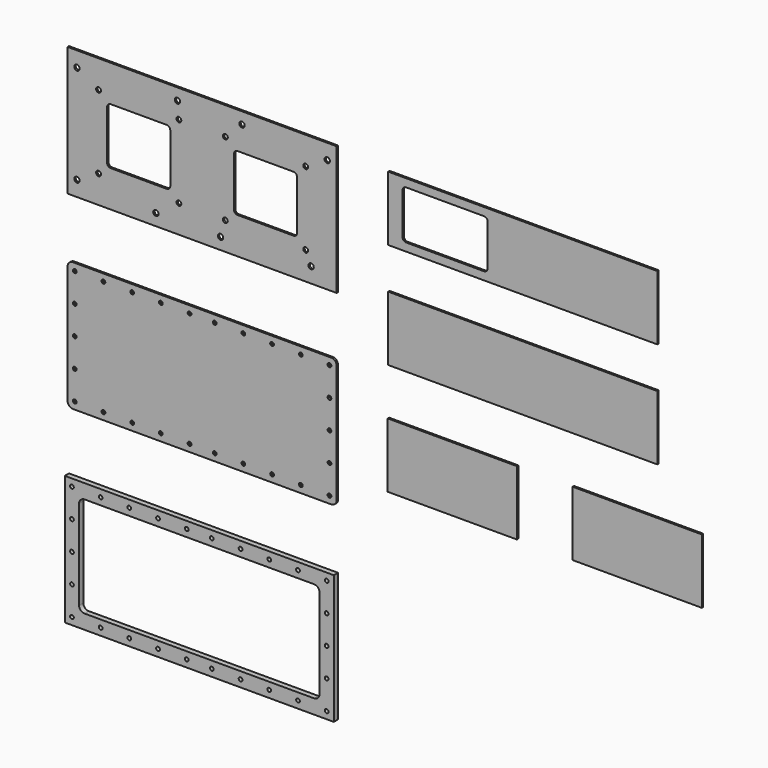
from build123d import *

# Parameters (mm, degrees)
F0_W     = 486.08569
F0_H     = 233.321132
F0_R     = 4.860857
F0_R_2   = 4.407177
F0_H_2   = 116.660566
F0_H_3   = 116.660565
F0_W_2   = 233.321131
F0_R_3   = 3.370194
F1_DEPTH = 3.175
F0_H_4   = 233.321131
F2_DEPTH = 9.525


with BuildPart() as f1:
    # F0 (on Front) → F1 (new body)
    with BuildSketch(Plane.XZ):
        with Locations((-327.868002, 334.885789)):
            Rectangle(F0_W, F0_H)
        with Locations((-553.897848, 245.770079)):
            Circle(F0_R, mode=Mode.SUBTRACT)
        with Locations((-515.010993, 268.454078)):
            Circle(F0_R_2, mode=Mode.SUBTRACT)
        with BuildLine():
            ThreePointArc((-499.456251, 379.281615), (-497.557968, 383.864475), (-492.975108, 385.762758))
            Line((-492.975108, 385.762758), (-391.869285, 385.762758))
            ThreePointArc((-391.869285, 385.762758), (-387.286425, 383.864475), (-385.388142, 379.281615))
            Line((-385.388142, 379.281615), (-385.388142, 290.489963))
            ThreePointArc((-385.388142, 290.489963), (-387.286425, 285.907103), (-391.869285, 284.00882))
            Line((-391.869285, 284.00882), (-492.975108, 284.00882))
            ThreePointArc((-492.975108, 284.00882), (-497.557968, 285.907103), (-499.456251, 290.489963))
            Line((-499.456251, 290.489963), (-499.456251, 379.281615))
        make_face(mode=Mode.SUBTRACT)
        with Locations((-411.312712, 239.288936)):
            Circle(F0_R, mode=Mode.SUBTRACT)
        with Locations((-369.8334, 268.454078)):
            Circle(F0_R_2, mode=Mode.SUBTRACT)
        with Locations((-294.652147, 239.288936)):
            Circle(F0_R, mode=Mode.SUBTRACT)
        with Locations((-285.902604, 268.454078)):
            Circle(F0_R_2, mode=Mode.SUBTRACT)
        with Locations((-515.010993, 401.3175)):
            Circle(F0_R_2, mode=Mode.SUBTRACT)
        with Locations((-553.897848, 424.001499)):
            Circle(F0_R, mode=Mode.SUBTRACT)
        with Locations((-369.8334, 401.3175)):
            Circle(F0_R_2, mode=Mode.SUBTRACT)
        with Locations((-372.425857, 430.482641)):
            Circle(F0_R, mode=Mode.SUBTRACT)
        with Locations((-285.902604, 401.3175)):
            Circle(F0_R_2, mode=Mode.SUBTRACT)
        with BuildLine():
            Line((-270.347862, 290.489963), (-270.347862, 379.281615))
            ThreePointArc((-270.347862, 379.281615), (-268.44958, 383.864475), (-263.86672, 385.762758))
            Line((-263.86672, 385.762758), (-162.760896, 385.762758))
            ThreePointArc((-162.760896, 385.762758), (-158.178036, 383.864475), (-156.279754, 379.281615))
            Line((-156.279754, 379.281615), (-156.279754, 290.489963))
            ThreePointArc((-156.279754, 290.489963), (-158.178036, 285.907103), (-162.760896, 284.00882))
            Line((-162.760896, 284.00882), (-263.86672, 284.00882))
            ThreePointArc((-263.86672, 284.00882), (-268.44958, 285.907103), (-270.347862, 290.489963))
        make_face(mode=Mode.SUBTRACT)
        with Locations((-131.003298, 245.770079)):
            Circle(F0_R, mode=Mode.SUBTRACT)
        with Locations((-140.725011, 268.454078)):
            Circle(F0_R_2, mode=Mode.SUBTRACT)
        with Locations((-255.765292, 430.482641)):
            Circle(F0_R, mode=Mode.SUBTRACT)
        with Locations((-140.725011, 401.3175)):
            Circle(F0_R_2, mode=Mode.SUBTRACT)
        with Locations((-101.838156, 424.001499)):
            Circle(F0_R, mode=Mode.SUBTRACT)
        with Locations((251.317019, 383.162653)):
            Rectangle(F0_W, F0_H_2)
        with BuildLine():
            Line((34.198744, 345.831272), (34.198744, 420.494034))
            ThreePointArc((34.198744, 420.494034), (36.097027, 425.076894), (40.679887, 426.975177))
            Line((40.679887, 426.975177), (181.450303, 426.975177))
            ThreePointArc((181.450303, 426.975177), (186.033163, 425.076894), (187.931445, 420.494034))
            Line((187.931445, 420.494034), (187.931445, 345.831272))
            ThreePointArc((187.931445, 345.831272), (186.033163, 341.248412), (181.450303, 339.350129))
            Line((181.450303, 339.350129), (40.679887, 339.350129))
            ThreePointArc((40.679887, 339.350129), (36.097027, 341.248412), (34.198744, 345.831272))
        make_face(mode=Mode.SUBTRACT)
        with Locations((251.317019, 192.287484)):
            Rectangle(F0_W, F0_H_3)
        with Locations((458.220417, -9.596711)):
            Rectangle(F0_W_2, F0_H_3)
        with Locations((124.074873, -9.596711)):
            Rectangle(F0_W_2, F0_H_3)
        with BuildLine():
            ThreePointArc((-570.910847, -111.415304), (-568.063423, -118.289594), (-561.189134, -121.137018))
            Line((-561.189134, -121.137018), (-94.546871, -121.137018))
            ThreePointArc((-94.546871, -121.137018), (-87.672581, -118.289594), (-84.825157, -111.415304))
            Line((-84.825157, -111.415304), (-84.825157, 102.462399))
            ThreePointArc((-84.825157, 102.462399), (-87.672581, 109.336689), (-94.546871, 112.184113))
            Line((-94.546871, 112.184113), (-561.189134, 112.184113))
            ThreePointArc((-561.189134, 112.184113), (-568.063423, 109.336689), (-570.910847, 102.462399))
            Line((-570.910847, 102.462399), (-570.910847, -111.415304))
        make_face()
        with Locations((-557.948562, -108.174733)):
            Circle(F0_R_3, mode=Mode.SUBTRACT)
        with Locations((-506.099422, -108.174733)):
            Circle(F0_R_3, mode=Mode.SUBTRACT)
        with Locations((-454.250282, -108.174733)):
            Circle(F0_R_3, mode=Mode.SUBTRACT)
        with Locations((-557.948562, -56.325593)):
            Circle(F0_R_3, mode=Mode.SUBTRACT)
        with Locations((-402.401141, -108.174733)):
            Circle(F0_R_3, mode=Mode.SUBTRACT)
        with Locations((-350.552001, -108.174733)):
            Circle(F0_R_3, mode=Mode.SUBTRACT)
        with Locations((-305.184003, -108.174733)):
            Circle(F0_R_3, mode=Mode.SUBTRACT)
        with Locations((-253.334863, -108.174733)):
            Circle(F0_R_3, mode=Mode.SUBTRACT)
        with Locations((-201.485723, -108.174733)):
            Circle(F0_R_3, mode=Mode.SUBTRACT)
        with Locations((-149.636582, -108.174733)):
            Circle(F0_R_3, mode=Mode.SUBTRACT)
        with Locations((-97.787442, -108.174733)):
            Circle(F0_R_3, mode=Mode.SUBTRACT)
        with Locations((-97.787442, -56.325593)):
            Circle(F0_R_3, mode=Mode.SUBTRACT)
        with Locations((-557.948562, -4.476452)):
            Circle(F0_R_3, mode=Mode.SUBTRACT)
        with Locations((-557.948562, 47.372688)):
            Circle(F0_R_3, mode=Mode.SUBTRACT)
        with Locations((-557.948562, 99.221828)):
            Circle(F0_R_3, mode=Mode.SUBTRACT)
        with Locations((-506.099422, 99.221828)):
            Circle(F0_R_3, mode=Mode.SUBTRACT)
        with Locations((-454.250282, 99.221828)):
            Circle(F0_R_3, mode=Mode.SUBTRACT)
        with Locations((-402.401141, 99.221828)):
            Circle(F0_R_3, mode=Mode.SUBTRACT)
        with Locations((-350.552001, 99.221828)):
            Circle(F0_R_3, mode=Mode.SUBTRACT)
        with Locations((-305.184003, 99.221828)):
            Circle(F0_R_3, mode=Mode.SUBTRACT)
        with Locations((-253.334863, 99.221828)):
            Circle(F0_R_3, mode=Mode.SUBTRACT)
        with Locations((-201.485723, 99.221828)):
            Circle(F0_R_3, mode=Mode.SUBTRACT)
        with Locations((-149.636582, 99.221828)):
            Circle(F0_R_3, mode=Mode.SUBTRACT)
        with Locations((-97.787442, -4.476452)):
            Circle(F0_R_3, mode=Mode.SUBTRACT)
        with Locations((-97.787442, 47.372688)):
            Circle(F0_R_3, mode=Mode.SUBTRACT)
        with Locations((-97.787442, 99.221828)):
            Circle(F0_R_3, mode=Mode.SUBTRACT)
    extrude(amount=F1_DEPTH)


with BuildPart() as f2:
    # F0 (on Front) → F2 (new body)
    with BuildSketch(Plane.XZ):
        with Locations((-327.868002, -344.655681)):
            Rectangle(F0_W, F0_H_4)
        with Locations((-557.948562, -448.353961)):
            Circle(F0_R_3, mode=Mode.SUBTRACT)
        with Locations((-506.099422, -448.353961)):
            Circle(F0_R_3, mode=Mode.SUBTRACT)
        with Locations((-454.250282, -448.353961)):
            Circle(F0_R_3, mode=Mode.SUBTRACT)
        with Locations((-557.948562, -396.504821)):
            Circle(F0_R_3, mode=Mode.SUBTRACT)
        with Locations((-402.401141, -448.353961)):
            Circle(F0_R_3, mode=Mode.SUBTRACT)
        with Locations((-350.552001, -448.353961)):
            Circle(F0_R_3, mode=Mode.SUBTRACT)
        with Locations((-305.184003, -448.353961)):
            Circle(F0_R_3, mode=Mode.SUBTRACT)
        with Locations((-557.948562, -344.655681)):
            Circle(F0_R_3, mode=Mode.SUBTRACT)
        with Locations((-557.948562, -292.80654)):
            Circle(F0_R_3, mode=Mode.SUBTRACT)
        with Locations((-557.948562, -240.9574)):
            Circle(F0_R_3, mode=Mode.SUBTRACT)
        with Locations((-506.099422, -240.9574)):
            Circle(F0_R_3, mode=Mode.SUBTRACT)
        with Locations((-454.250282, -240.9574)):
            Circle(F0_R_3, mode=Mode.SUBTRACT)
        with BuildLine():
            ThreePointArc((-544.986277, -263.641399), (-542.138853, -256.767109), (-535.264563, -253.919685))
            Line((-535.264563, -253.919685), (-120.471441, -253.919685))
            ThreePointArc((-120.471441, -253.919685), (-113.597151, -256.767109), (-110.749727, -263.641399))
            Line((-110.749727, -263.641399), (-110.749727, -425.669962))
            ThreePointArc((-110.749727, -425.669962), (-113.597151, -432.544252), (-120.471441, -435.391676))
            Line((-120.471441, -435.391676), (-535.264563, -435.391676))
            ThreePointArc((-535.264563, -435.391676), (-542.138853, -432.544252), (-544.986277, -425.669962))
            Line((-544.986277, -425.669962), (-544.986277, -263.641399))
        make_face(mode=Mode.SUBTRACT)
        with Locations((-402.401141, -240.9574)):
            Circle(F0_R_3, mode=Mode.SUBTRACT)
        with Locations((-350.552001, -240.9574)):
            Circle(F0_R_3, mode=Mode.SUBTRACT)
        with Locations((-305.184003, -240.9574)):
            Circle(F0_R_3, mode=Mode.SUBTRACT)
        with Locations((-253.334863, -448.353961)):
            Circle(F0_R_3, mode=Mode.SUBTRACT)
        with Locations((-201.485723, -448.353961)):
            Circle(F0_R_3, mode=Mode.SUBTRACT)
        with Locations((-149.636582, -448.353961)):
            Circle(F0_R_3, mode=Mode.SUBTRACT)
        with Locations((-97.787442, -448.353961)):
            Circle(F0_R_3, mode=Mode.SUBTRACT)
        with Locations((-97.787442, -396.504821)):
            Circle(F0_R_3, mode=Mode.SUBTRACT)
        with Locations((-253.334863, -240.9574)):
            Circle(F0_R_3, mode=Mode.SUBTRACT)
        with Locations((-201.485723, -240.9574)):
            Circle(F0_R_3, mode=Mode.SUBTRACT)
        with Locations((-149.636582, -240.9574)):
            Circle(F0_R_3, mode=Mode.SUBTRACT)
        with Locations((-97.787442, -344.655681)):
            Circle(F0_R_3, mode=Mode.SUBTRACT)
        with Locations((-97.787442, -292.80654)):
            Circle(F0_R_3, mode=Mode.SUBTRACT)
        with Locations((-97.787442, -240.9574)):
            Circle(F0_R_3, mode=Mode.SUBTRACT)
    extrude(amount=F2_DEPTH)


solid = Compound([f1.part, f2.part])
